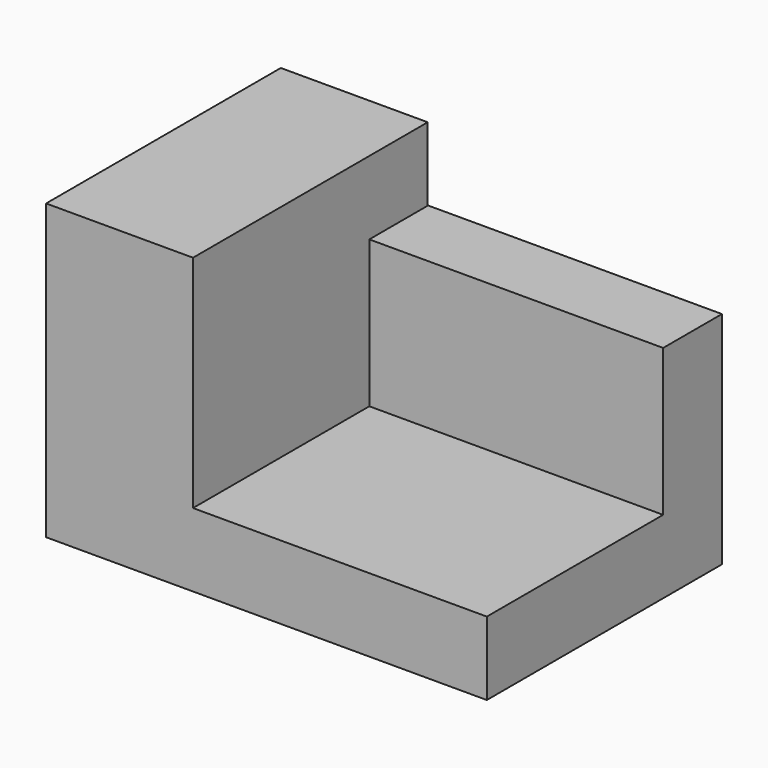
from build123d import *

# Parameters (mm, degrees)
F1_DEPTH = 25.4
F2_W     = 25.360864
F2_H     = 25.4
F3_DEPTH = 12.7


with BuildPart() as f1:
    # F0 (on Right) → F1 (new body)
    with BuildSketch(Plane.YZ):
        Polygon((0, 6.35), (0, 0), (25.4, 0), (25.4, 19.05), (19.05, 19.05), (19.05, 6.35), align=None)
    extrude(amount=F1_DEPTH)

    # F2 (on Right) → F3 (join)
    with BuildSketch(Plane.YZ):
        with Locations((12.680432, 12.7)):
            Rectangle(F2_W, F2_H)
    extrude(amount=-F3_DEPTH)


solid = f1.part
